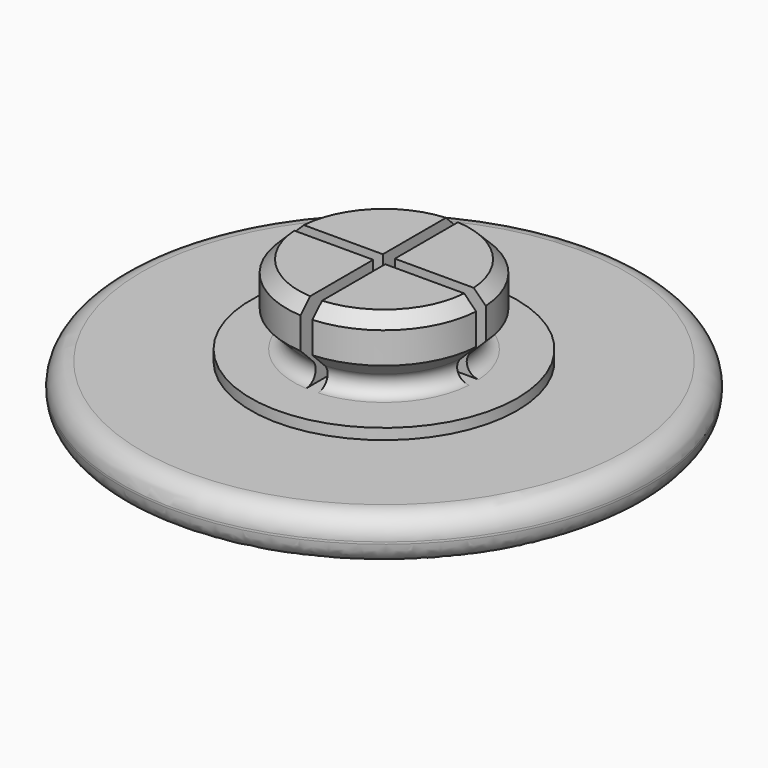
from build123d import *

# Parameters (mm, degrees)
F2_R     = 0.5
F3_R     = 0.9
F4_SIZE  = 0.5
F6_DEPTH = 3.3


with BuildPart() as f1:
    # F0 (on Front) → F1 (revolve)
    with BuildSketch(Plane.XZ):
        with BuildLine():
            ThreePointArc((0, 0.7), (5.511125, 0.524823), (11, 0))
            Line((11, 0), (11, 2))
            Line((11, 2), (5.55, 2))
            Line((5.55, 2), (5.55, 2.45))
            Line((5.55, 2.45), (2.55, 2.45))
            Line((2.55, 2.45), (4.05, 3.95))
            Line((4.05, 3.95), (4.05, 5.75))
            Line((4.05, 5.75), (0, 5.75))
            Line((0, 5.75), (0, 0.7))
        make_face()
    revolve(axis=Axis((0, 0, 3.225), (0, 0, -1)))

    # F2
    f2_edges = [f1.edges().sort_by_distance(p)[0] for p in [
        (-2.55, 0, 2.45),
    ]]
    fillet(f2_edges, radius=F2_R)

    # F3
    f3_edges = [f1.edges().sort_by_distance(p)[0] for p in [
        (-11, 0, 0),
        (-11, 0, 2),
    ]]
    fillet(f3_edges, radius=F3_R)

    # F4
    f4_edges = [f1.edges().sort_by_distance(p)[0] for p in [
        (-4.05, 0, 5.75),
    ]]
    chamfer(f4_edges, length=F4_SIZE)

    # F5 (on face) → F6 (cut, through all)
    with BuildSketch(Plane.XY.offset(5.75)):
        Polygon((0.25, 4.5), (-0.25, 4.5), (-0.25, 0.25), (-4.5, 0.25), (-4.5, -0.25), (-0.25, -0.25), (-0.25, -4.5), (0.25, -4.5), (0.25, -0.25), (4.5, -0.25), (4.5, 0.25), (0.25, 0.25), align=None)
    extrude(amount=-F6_DEPTH, mode=Mode.SUBTRACT)


solid = f1.part
